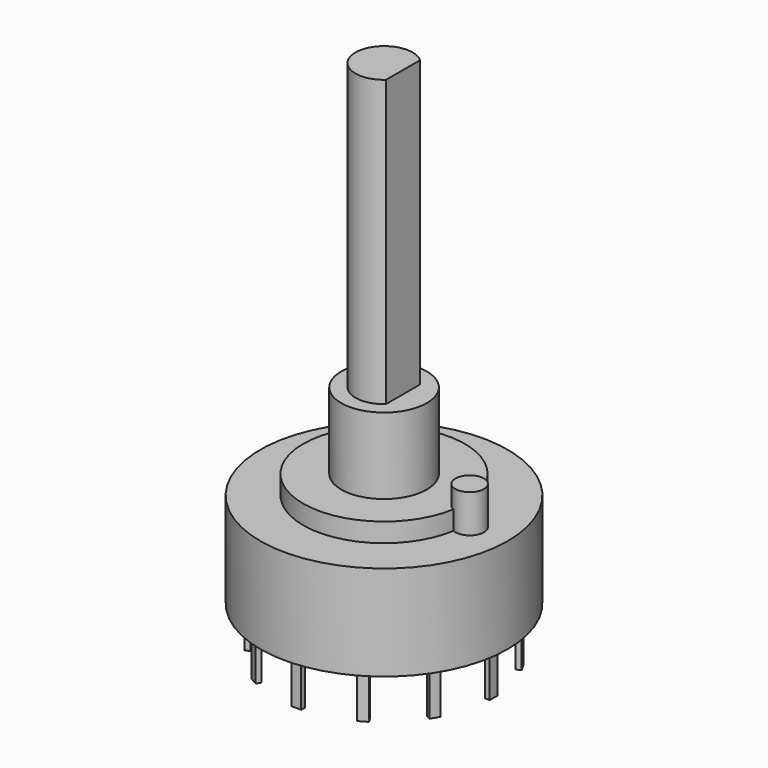
from build123d import *

# Parameters (mm, degrees)
CYLINDER001_R     = 8.5
CYLINDER001_DEPTH = 2
BOX_W             = 0.5
BOX_H             = 1
BOX_DEPTH         = 5
ARRAY_COUNT       = 12
BOX001_W          = 0.5
BOX001_H          = 1
BOX001_DEPTH      = 5
CYLINDER002_R     = 4.5
CYLINDER002_DEPTH = 8
CYLINDER004_R     = 1.5
CYLINDER004_DEPTH = 4
BOX002_W          = 1
BOX002_H          = 10
BOX002_DEPTH      = 30
CYLINDER003_R     = 3
CYLINDER003_DEPTH = 30
CYLINDER_R        = 13
CYLINDER_DEPTH    = 10


with BuildPart() as cylinder001:
    # Cylinder001 → Cylinder001 (new body)
    with BuildSketch(Plane.XY.offset(10)):
        Circle(CYLINDER001_R)
    extrude(amount=CYLINDER001_DEPTH)


with BuildPart() as pin_array:
    # Box → Box (new body)
    with BuildSketch(Plane(origin=(11, -0.5, -5), x_dir=(1, 0, 0), z_dir=(0, 0, 1))):
        with Locations((0.25, 0.5)):
            Rectangle(BOX_W, BOX_H)
    extrude(amount=BOX_DEPTH)

    # Array: Pin array ×12 about axis
    array_axis = Axis((0, 0, 0), (0, 0, 1))


with BuildPart() as pin_array_1:
    add(pin_array.part)
    for i in range(1, ARRAY_COUNT):
        add(pin_array.part.rotate(array_axis, i * 360 / ARRAY_COUNT))


with BuildPart() as pin_central:
    # Box001 → Box001 (new body)
    with BuildSketch(Plane(origin=(3, -0.5, -5), x_dir=(1, 0, 0), z_dir=(0, 0, 1))):
        with Locations((0.25, 0.5)):
            Rectangle(BOX001_W, BOX001_H)
    extrude(amount=BOX001_DEPTH)


with BuildPart() as cylinder002:
    # Cylinder002 → Cylinder002 (new body)
    with BuildSketch(Plane.XY.offset(12)):
        Circle(CYLINDER002_R)
    extrude(amount=CYLINDER002_DEPTH)


with BuildPart() as cylinder004:
    # Cylinder004 → Cylinder004 (new body)
    with BuildSketch(Plane(origin=(9, 0, 10), x_dir=(1, 0, 0), z_dir=(0, 0, 1))):
        Circle(CYLINDER004_R)
    extrude(amount=CYLINDER004_DEPTH)


with BuildPart() as obj1:
    # Box002 → Box002 (new body)
    with BuildSketch(Plane(origin=(2, -5, 20), x_dir=(1, 0, 0), z_dir=(0, 0, 1))):
        with Locations((0.5, 5)):
            Rectangle(BOX002_W, BOX002_H)
    extrude(amount=BOX002_DEPTH)


with BuildPart() as obj2:
    # Cylinder003 → Cylinder003 (new body)
    with BuildSketch(Plane.XY.offset(20)):
        Circle(CYLINDER003_R)
    extrude(amount=CYLINDER003_DEPTH)

    # Cut: cut obj1
    add(obj1.part, mode=Mode.SUBTRACT)


with BuildPart() as selector_final:
    # Cylinder → Cylinder (new body)
    with BuildSketch(Plane.XY):
        Circle(CYLINDER_R)
    extrude(amount=CYLINDER_DEPTH)

    # Fusion: union Cylinder001, Pin array, Pin central, Cylinder002, Cylinder004, obj2
    add(cylinder001.part)
    add(pin_array_1.part)
    add(pin_central.part)
    add(cylinder002.part)
    add(cylinder004.part)
    add(obj2.part)


solid = selector_final.part
